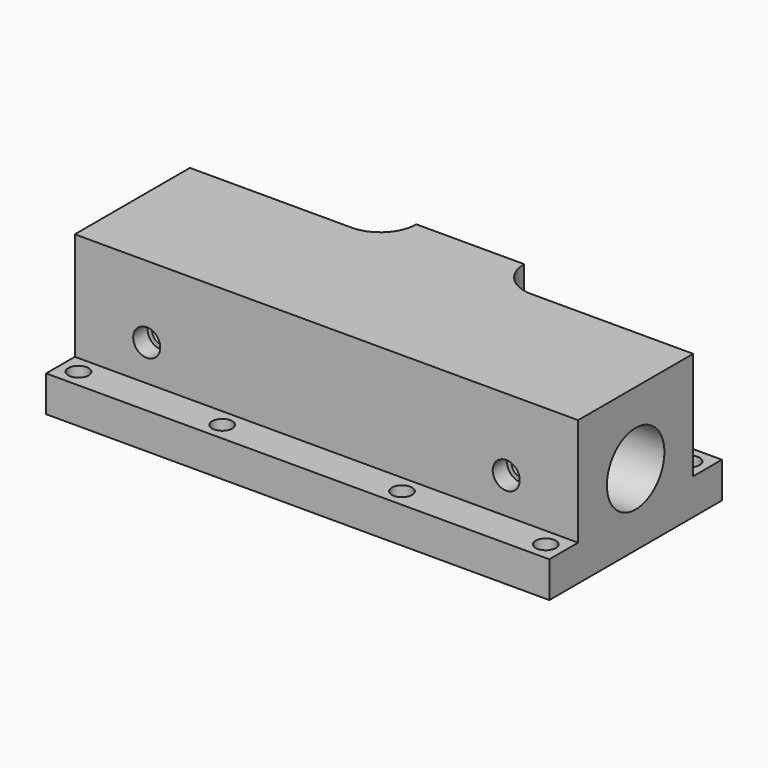
from build123d import *

# Parameters (mm, degrees)
F0_W           = 38.1
F0_H           = 25.4
F0_R           = 6.35
F1_DEPTH       = 44.45
F2_W           = 88.9
F2_H           = 6.35
F3_DEPTH       = 19.05
F5_D           = 8.73125
F5_DEPTH       = 19.05
F5_TIP         = 2.6231321399
F7_D           = 3.175
F7_DEPTH       = 12.7
F7_CBORE_D     = 4.7752
F7_CBORE_DEPTH = 3.175
F7_TIP         = 0.9538662327
F9_D           = 3.556


with BuildPart() as f1:
    # F0 (on Right) → F1 (new body, symmetric)
    with BuildSketch(Plane.YZ):
        Rectangle(F0_W, F0_H)
        Circle(F0_R, mode=Mode.SUBTRACT)
    extrude(amount=F1_DEPTH, both=True)

    # F2 (on face) → F3 (cut)
    with BuildSketch(Plane.XY.offset(12.7)):
        with BuildLine():
            Line((-9.525, 19.05), (-44.45, 19.05))
            Line((-44.45, 19.05), (-44.45, 12.7))
            Line((-44.45, 12.7), (-15.875, 12.7))
            ThreePointArc((-15.875, 12.7), (-11.3848719395, 14.5598719395), (-9.525, 19.05))
        make_face()
        with BuildLine():
            Line((44.45, 12.7), (44.45, 19.05))
            Line((44.45, 19.05), (9.525, 19.05))
            ThreePointArc((9.525, 19.05), (11.3848719395, 14.5598719395), (15.875, 12.7))
            Line((15.875, 12.7), (44.45, 12.7))
        make_face()
        with Locations((0, -15.875)):
            Rectangle(F2_W, F2_H)
    extrude(amount=-F3_DEPTH, mode=Mode.SUBTRACT)

    # F5
    with Locations(Plane(origin=(0, 19.05, 0), x_dir=(-1, 0, 0), z_dir=(0, 1, 0))):
        with Locations((0, 0)):
            Hole(F5_D / 2, depth=F5_DEPTH)
            with Locations((0, 0, -(F5_DEPTH + F5_TIP / 2))):  # 118° drill point
                Cone(0, F5_D / 2, F5_TIP, mode=Mode.SUBTRACT)

    # F7
    with Locations(Plane.XZ.offset(12.7)):
        with Locations((-31.75, 0), (31.75, 0)):
            CounterBoreHole(F7_D / 2, F7_CBORE_D / 2, F7_CBORE_DEPTH, depth=F7_DEPTH)
            with Locations((0, 0, -(F7_DEPTH + F7_TIP / 2))):  # 118° drill point
                Cone(0, F7_D / 2, F7_TIP, mode=Mode.SUBTRACT)

    # F9 (through all)
    with Locations(Plane.XY.offset(-6.35)):
        with Locations((-41.275, 15.875), (-15.875, 15.875), (15.875, 15.875), (41.275, 15.875), (41.275, -15.875), (15.875, -15.875), (-15.875, -15.875), (-41.275, -15.875)):
            Hole(F9_D / 2)


solid = f1.part
